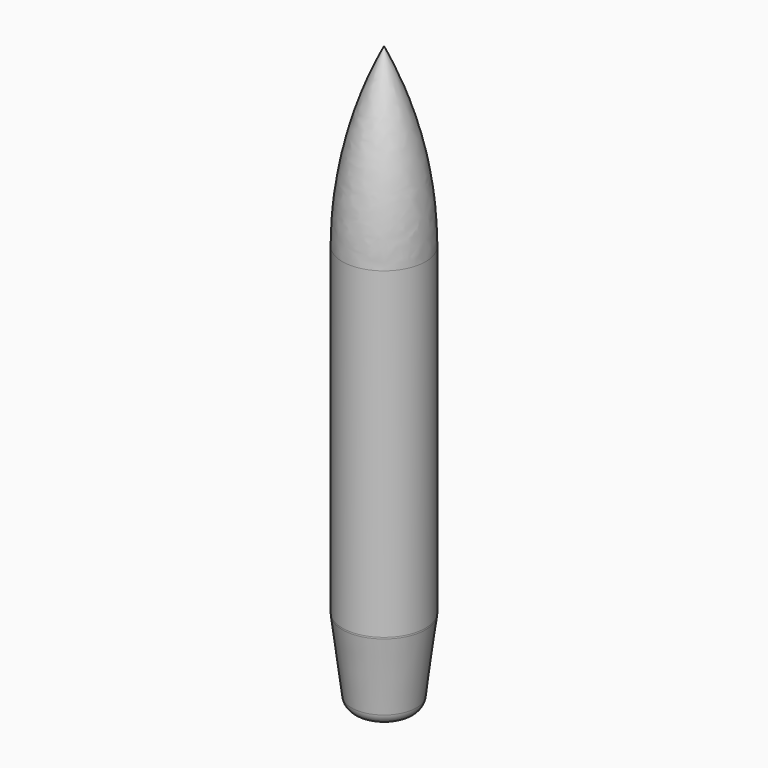
from build123d import *

# Parameters (mm, degrees)
F0_R       = 12.7
F1_DEPTH   = 63.5
F2_R       = 12.7
F6_R       = 120.1325893594
F1_FACE1_R = 12.7
F8_R       = 9.525
F10_R      = 3.81


with BuildPart() as f1:
    # F0 (on Top) → F1 (new body, symmetric)
    with BuildSketch(Plane.XY):
        Circle(F0_R)
    extrude(amount=F1_DEPTH, both=True)

    # F2 (on face) → F5 section 0
    with BuildSketch(Plane.XY.offset(63.5), mode=Mode.PRIVATE) as f5_s0:
        Circle(F2_R)
    loft([Vertex(0, 0, 88.9), f5_s0.sketch])

    # F6
    f6_edges = [f1.edges().sort_by_distance(p)[0] for p in [
        (6.35, 0, 76.2),
        (-12.7, 0, 63.5),
    ]]
    fillet(f6_edges, radius=F6_R)

    # F1_face1 (on face) → F9 section 0
    with BuildSketch(Plane(origin=(0, 0, -63.5), x_dir=(1, 0, 0), z_dir=(0, 0, -1))):
        Circle(F1_FACE1_R)
    # F8 (on offset) → F9 section 1
    with BuildSketch(Plane(origin=(0, 0, -88.9), x_dir=(1, 0, 0), z_dir=(0, 0, -1))):
        Circle(F8_R)
    loft()

    # F10
    f10_edges = [f1.edges().sort_by_distance(p)[0] for p in [
        (-12.7, 0, -63.5),
        (11.1125, 0, -76.2),
        (-9.525, 0, -88.9),
    ]]
    fillet(f10_edges, radius=F10_R)


solid = f1.part
